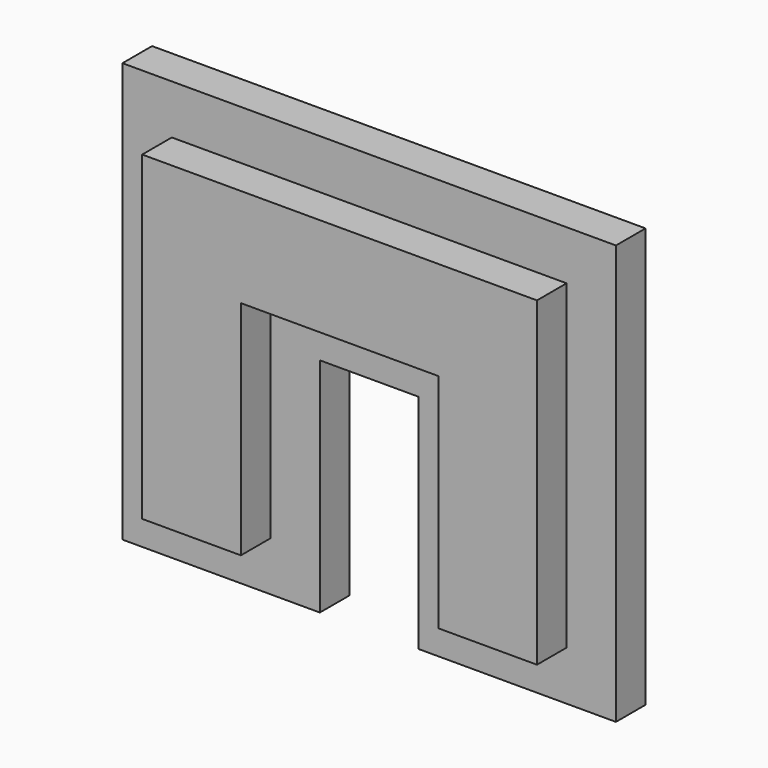
from build123d import *

# Parameters (mm, degrees)
F1_DEPTH = 7.62
F2_DEPTH = 3.81


with BuildPart() as f1:
    # F0 (on Front) → F1 (new body)
    with BuildSketch(Plane.XZ):
        Polygon((-20.32, 13.97), (-20.32, -19.05), (-10.16, -19.05), (-10.16, 3.81), (10.16, 3.81), (10.16, -19.05), (20.32, -19.05), (20.32, 13.97), align=None)
    extrude(amount=F1_DEPTH)

    # F0 (on Front) → F2 (join)
    with BuildSketch(Plane.XZ):
        Polygon((25.4, 19.05), (-25.4, 19.05), (-25.4, -19.05), (-20.32, -19.05), (-20.32, 13.97), (20.32, 13.97), (20.32, -19.05), (25.4, -19.05), align=None)
        Polygon((-10.16, 3.81), (-10.16, -19.05), (-5.08, -19.05), (-5.08, -1.27), (5.08, -1.27), (5.08, -19.05), (10.16, -19.05), (10.16, 3.81), align=None)
        Polygon((-20.32, -19.05), (-25.4, -19.05), (-25.4, -24.13), (-5.08, -24.13), (-5.08, -19.05), (-10.16, -19.05), align=None)
        Polygon((25.4, -24.13), (25.4, -19.05), (20.32, -19.05), (10.16, -19.05), (5.08, -19.05), (5.08, -24.13), align=None)
    extrude(amount=F2_DEPTH)


solid = f1.part
